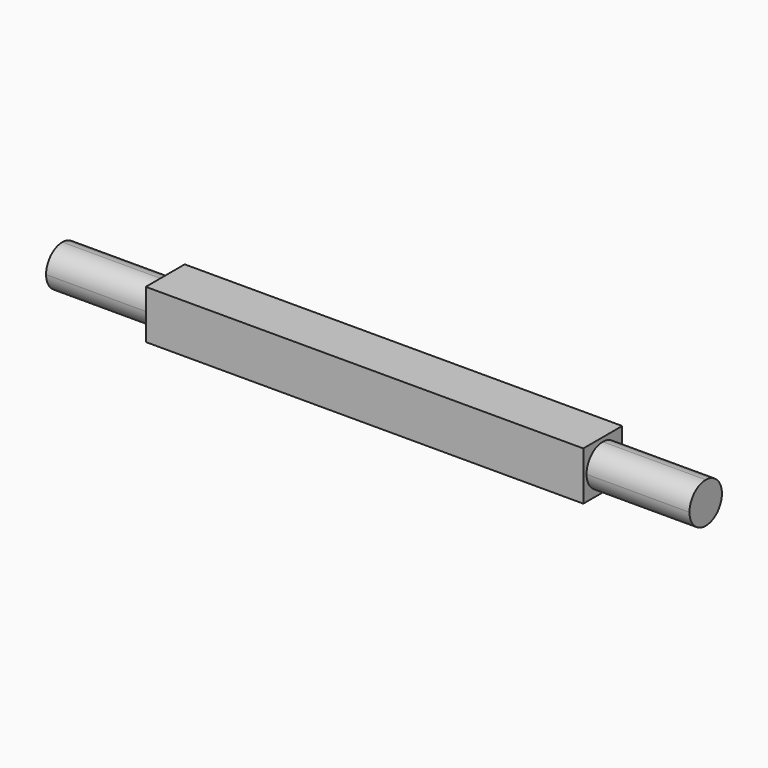
from build123d import *

# Parameters (mm, degrees)
F1_DEPTH = 107.95
F2_DEPTH = 158.75
F4_DEPTH = 2
F5_DEPTH = 2
F6_DEPTH = 2
F7_DEPTH = 2


with BuildPart() as f1:
    # F0 (on Right) → F1 (new body, symmetric)
    with BuildSketch(Plane.YZ):
        with BuildLine():
            ThreePointArc((-10, 0), (-7.0710678119, 7.0710678119), (0, 10))
            Line((0, 10), (-10, 10))
            Line((-10, 10), (-10, 0))
        make_face()
    extrude(amount=F1_DEPTH, both=True)


with BuildPart() as f1b:
    # F0 (on Right) → F1, piece 2 (new body, symmetric)
    with BuildSketch(Plane.YZ):
        with BuildLine():
            ThreePointArc((0, 10), (7.0710678119, 7.0710678119), (10, 0))
            Line((10, 0), (10, 10))
            Line((10, 10), (0, 10))
        make_face()
    extrude(amount=F1_DEPTH, both=True)


with BuildPart() as f1c:
    # F0 (on Right) → F1, piece 3 (new body, symmetric)
    with BuildSketch(Plane.YZ):
        with BuildLine():
            Line((10, -10), (10, 0))
            ThreePointArc((10, 0), (7.0710678119, -7.0710678119), (0, -10))
            Line((0, -10), (10, -10))
        make_face()
    extrude(amount=F1_DEPTH, both=True)


with BuildPart() as f1d:
    # F0 (on Right) → F1, piece 4 (new body, symmetric)
    with BuildSketch(Plane.YZ):
        with BuildLine():
            Line((-10, -10), (0, -10))
            ThreePointArc((0, -10), (-7.0710678119, -7.0710678119), (-10, 0))
            Line((-10, 0), (-10, -10))
        make_face()
    extrude(amount=F1_DEPTH, both=True)


with BuildPart() as f2:
    # F0 (on Right) → F2 (new body, symmetric)
    with BuildSketch(Plane.YZ):
        with BuildLine():
            ThreePointArc((0, -10), (7.0710678119, -7.0710678119), (10, 0))
            ThreePointArc((10, 0), (7.0710678119, 7.0710678119), (0, 10))
            ThreePointArc((0, 10), (-7.0710678119, 7.0710678119), (-10, 0))
            ThreePointArc((-10, 0), (-7.0710678119, -7.0710678119), (0, -10))
        make_face()
    extrude(amount=F2_DEPTH, both=True)


with BuildPart() as f1_1:
    add(f1.part)

    # F3: union F1b, F2, F1c, F1d
    add(f1b.part)
    add(f2.part)
    add(f1c.part)
    add(f1d.part)

    # F4 (add): a face of the model
    f4_faces = [f1_1.faces().sort_by_distance(p)[0] for p in [
        (0, 0, 10),
    ]]
    extrude(f4_faces, amount=F4_DEPTH)

    # F5 (add): a face of the model
    f5_faces = [f1_1.faces().sort_by_distance(p)[0] for p in [
        (0, -10, 1),
    ]]
    extrude(f5_faces, amount=F5_DEPTH)

    # F6 (add): a face of the model
    f6_faces = [f1_1.faces().sort_by_distance(p)[0] for p in [
        (0, 10, 1),
    ]]
    extrude(f6_faces, amount=F6_DEPTH)

    # F7 (add): a face of the model
    f7_faces = [f1_1.faces().sort_by_distance(p)[0] for p in [
        (0, 0, -10),
    ]]
    extrude(f7_faces, amount=F7_DEPTH)


solid = f1_1.part
